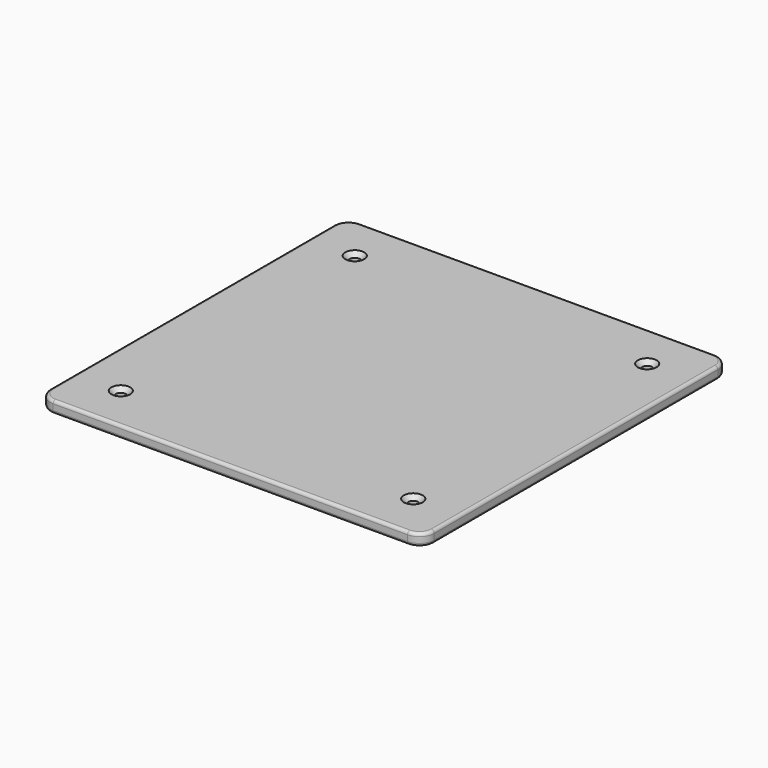
from build123d import *

# Parameters (mm, degrees)
F0_W     = 130
F0_H     = 130
F0_R     = 1.7
F1_DEPTH = 4
F2_R     = 5
F3_R     = 1
F4_SIZE  = 1.5


with BuildPart() as f1:
    # F0 (on Top) → F1 (new body)
    with BuildSketch(Plane.XY):
        Rectangle(F0_W, F0_H)
        with Locations((-49.5, -49.5)):
            Circle(F0_R, mode=Mode.SUBTRACT)
        with Locations((49.5, -49.5)):
            Circle(F0_R, mode=Mode.SUBTRACT)
        with Locations((-49.5, 49.5)):
            Circle(F0_R, mode=Mode.SUBTRACT)
        with Locations((49.5, 49.5)):
            Circle(F0_R, mode=Mode.SUBTRACT)
    extrude(amount=F1_DEPTH)

    # F2
    f2_edges = [f1.edges().sort_by_distance(p)[0] for p in [
        (65, 65, 2),
        (65, -65, 2),
        (-65, -65, 2),
        (-65, 65, 2),
    ]]
    fillet(f2_edges, radius=F2_R)

    # F3
    f3_edges = [f1.edges().sort_by_distance(p)[0] for p in [
        (65, 0, 4),
        (65, 0, 0),
    ]]
    fillet(f3_edges, radius=F3_R)

    # F4
    f4_edges = [f1.edges().sort_by_distance(p)[0] for p in [
        (-51.2, 49.5, 4),
        (47.8, 49.5, 4),
        (47.8, -49.5, 4),
        (-51.2, -49.5, 4),
    ]]
    chamfer(f4_edges, length=F4_SIZE)


solid = f1.part
